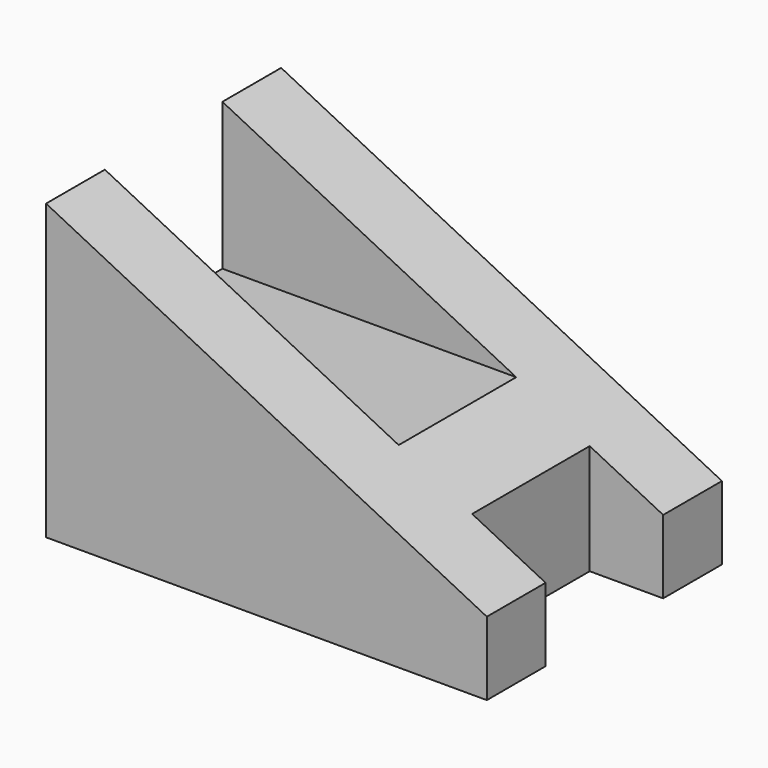
from build123d import *

# Parameters (mm, degrees)
F1_DEPTH = 10
F2_DEPTH = 5


with BuildPart() as f1:
    # F0 (on Front) → F1 (new body, symmetric)
    with BuildSketch(Plane.XZ):
        Polygon((0, 10), (0, 0), (25, 0), (25, 5), (25, 7.5), (20, 10), align=None)
        Polygon((25, 5), (25, 0), (30, 0), (30, 5), (25, 7.5), align=None)
        Polygon((0, 20), (0, 10), (20, 10), align=None)
        Polygon((0, 10), (0, 0), (25, 0), (25, 5), (25, 7.5), (20, 10), align=None)
    extrude(amount=F1_DEPTH, both=True)

    # F0 (on Front) → F2 (cut, symmetric)
    with BuildSketch(Plane.XZ):
        Polygon((0, 20), (0, 10), (20, 10), align=None)
        Polygon((25, 5), (25, 0), (30, 0), (30, 5), (25, 7.5), align=None)
    extrude(amount=F2_DEPTH, both=True, mode=Mode.SUBTRACT)


solid = f1.part
